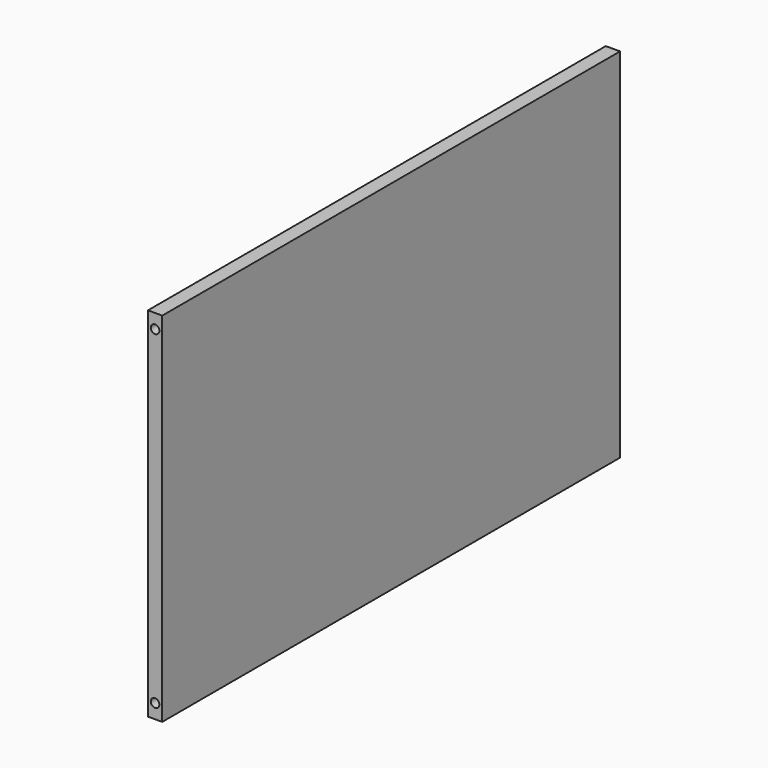
from build123d import *

# Parameters (mm, degrees)
F0_W     = 400
F0_H     = 250
F1_DEPTH = 10
F2_R     = 3
F3_DEPTH = 12


with BuildPart() as f1:
    # F0 (on Right) → F1 (new body)
    with BuildSketch(Plane.YZ):
        with Locations((200, 125)):
            Rectangle(F0_W, F0_H)
    extrude(amount=F1_DEPTH)

    # F2 (on face) → F3 (cut)
    with BuildSketch(Plane.XZ):
        with Locations((5, 240)):
            Circle(F2_R)
        with Locations((5, 10)):
            Circle(F2_R)
    extrude(amount=-F3_DEPTH, mode=Mode.SUBTRACT)


solid = f1.part
